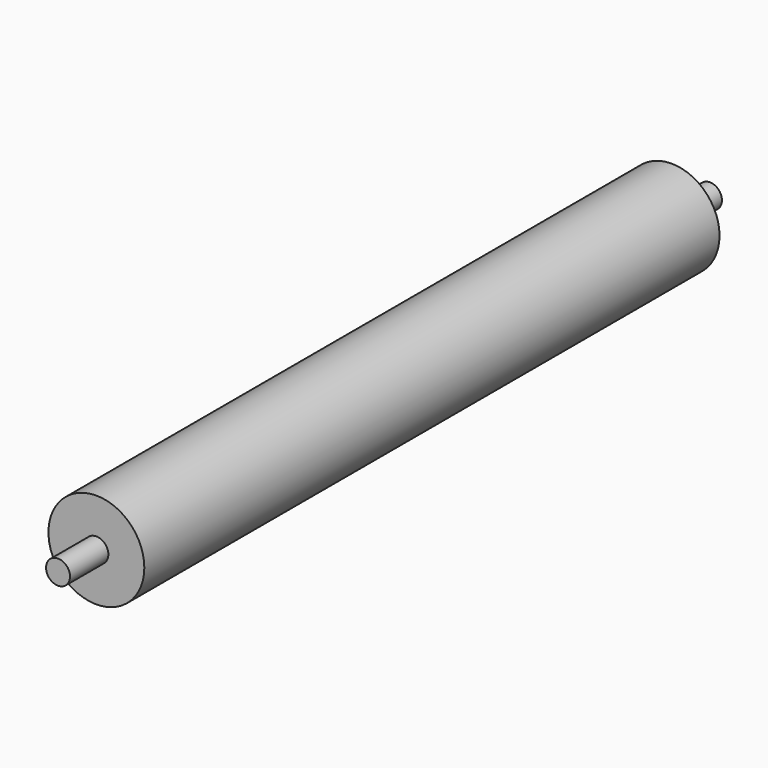
from build123d import *

# Parameters (mm, degrees)
F0_R     = 10
F1_DEPTH = 150
F3_R     = 2.5
F4_DEPTH = 10
F6_R     = 2.5
F7_DEPTH = 10


with BuildPart() as f1:
    # F0 (on Front) → F1 (new body)
    with BuildSketch(Plane.XZ):
        Circle(F0_R)
    extrude(amount=-F1_DEPTH)

    # F6 (on offset) → F7 (join)
    with BuildSketch(Plane(origin=(0, 150, 0), x_dir=(1, 0, 0), z_dir=(0, 1, 0))):
        Circle(F6_R)
    extrude(amount=F7_DEPTH)


with BuildPart() as f4:
    # F3 (on offset) → F4 (new body)
    with BuildSketch(Plane.XZ):
        Circle(F3_R)
    extrude(amount=F4_DEPTH)


solid = Compound([f1.part, f4.part])
